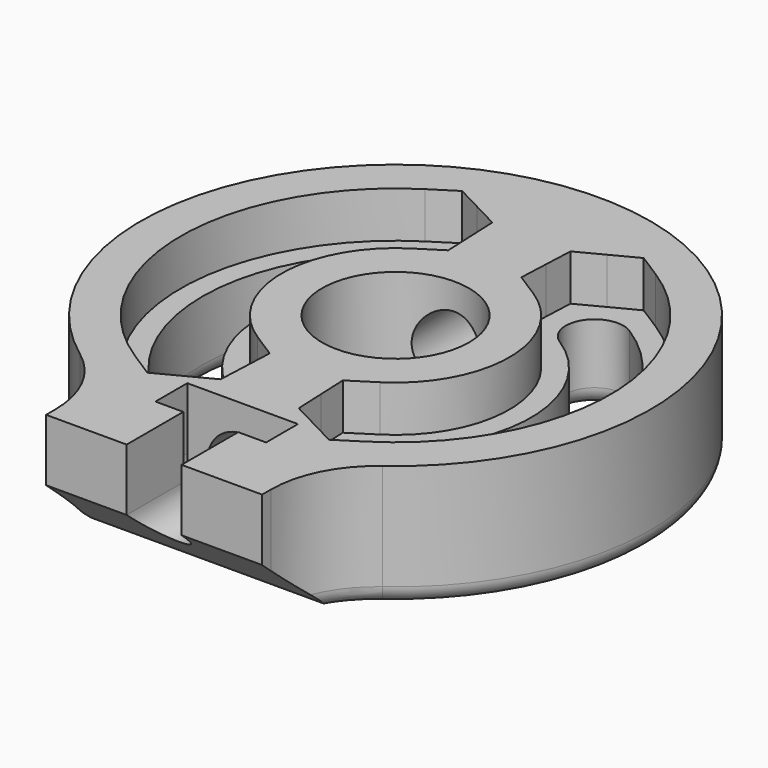
from build123d import *

# Parameters (mm, degrees)
SKETCH_R          = 4.15
EXTRUDE_DEPTH     = 7
FILLET_R          = 6
POCKET_DEPTH      = 20.501
POCKET_DEPTH_BACK = 8.301
FILLET001_R       = 1
SKETCH002_R       = 1.55
POCKET001_DEPTH   = 4
SKETCH003_R       = 2
POCKET002_DEPTH   = 27.445156
POCKET003_DEPTH   = 3.5
POCKET004_DEPTH   = 2.25
POCKET005_DEPTH   = 2.6


with BuildPart() as part:
    # Sketch → Extrude (new body)
    with BuildSketch(Plane.XY):
        with BuildLine():
            ThreePointArc((6.1, -13.044156), (0, 14.4), (-6.1, -13.044156))
            Line((-6.1, -13.044156), (-6.1, -17.044156))
            Line((-6.1, -17.044156), (6.1, -17.044156))
            Line((6.1, -17.044156), (6.1, -13.044156))
        make_face()
        Circle(SKETCH_R, mode=Mode.SUBTRACT)
        with BuildLine():
            ThreePointArc((-4.110342, 6.451945), (-7.65, 0), (-4.110342, -6.451945))
            ThreePointArc((-5.856566, -9.192967), (-3.612943, -8.695568), (-4.110342, -6.451945))
            ThreePointArc((-5.856566, 9.192967), (-10.9, 0), (-5.856566, -9.192967))
            ThreePointArc((-4.110342, 6.451945), (-3.612943, 8.695568), (-5.856566, 9.192967))
        make_face(mode=Mode.SUBTRACT)
        with BuildLine():
            ThreePointArc((4.110342, -6.451945), (7.65, 0), (4.110342, 6.451945))
            ThreePointArc((5.856566, 9.192967), (3.612943, 8.695568), (4.110342, 6.451945))
            ThreePointArc((5.856566, -9.192967), (10.9, 0), (5.856566, 9.192967))
            ThreePointArc((4.110342, -6.451945), (3.612943, -8.695568), (5.856566, -9.192967))
        make_face(mode=Mode.SUBTRACT)
    extrude(amount=EXTRUDE_DEPTH)

    # Fillet
    fillet_edges = [part.edges().sort_by_distance(p)[0] for p in [
        (6.1, -13.044156, 3.5),
        (-6.1, -13.044156, 3.5),
    ]]
    fillet(fillet_edges, radius=FILLET_R)

    # Sketch001 → Pocket (cut, two sides)
    with BuildSketch(Plane.YZ.offset(6.1)) as pocket_sk:
        Polygon((-17.044156, 3.5), (-17.044156, 0), (-13.044156, 0), align=None)
    extrude(amount=-POCKET_DEPTH, mode=Mode.SUBTRACT)
    extrude(pocket_sk.sketch, amount=POCKET_DEPTH_BACK, mode=Mode.SUBTRACT)

    # Fillet001
    fillet001_edges = [part.edges().sort_by_distance(p)[0] for p in [
        (0, 14.4, 0),
        (7.780531, -12.259672, 0),
        (0, -13.044156, 0),
        (-7.780531, -12.259672, 0),
        (-7.65, 0, 0),
        (-3.612943, 8.695568, 0),
        (-3.612943, -8.695568, 0),
        (-10.9, 0, 0),
        (-4.15, 0, 0),
        (3.612943, -8.695568, 0),
        (7.65, 0, 0),
        (10.9, 0, 0),
        (3.612943, 8.695568, 0),
    ]]
    fillet(fillet001_edges, radius=FILLET001_R)

    # Sketch002 → Pocket001 (cut)
    with BuildSketch(Plane.XZ.offset(17.044156)):
        with Locations((0, 3.5)):
            Circle(SKETCH002_R)
    extrude(amount=-POCKET001_DEPTH, mode=Mode.SUBTRACT)

    # Sketch003 → Pocket002 (cut, through all)
    with BuildSketch(Plane.XZ.offset(13.044156)):
        with Locations((0, 3.5)):
            Circle(SKETCH003_R)
    extrude(amount=-POCKET002_DEPTH, mode=Mode.SUBTRACT)

    # Sketch004 → Pocket003 (cut)
    with BuildSketch(Plane.XY.offset(7)):
        Polygon((-3.125, -10.794156), (3.125, -10.794156), (3.125, -13.044156), (1.55, -13.044156), (1.55, -17.044156), (-1.55, -17.044156), (-1.55, -13.044156), (-3.125, -13.044156), align=None)
    extrude(amount=-POCKET003_DEPTH, mode=Mode.SUBTRACT)

    # Sketch005 → Pocket004 (cut)
    with BuildSketch(Plane.XZ.offset(10.794156)):
        with BuildLine():
            Line((-3.125, 3.5), (3.125, 3.5))
            ThreePointArc((-3.125, 3.5), (0, 0.375), (3.125, 3.5))
        make_face()
    extrude(amount=POCKET004_DEPTH, mode=Mode.SUBTRACT)

    # Sketch006 → Pocket005 (cut)
    with BuildSketch(Plane.XY.offset(7)):
        with BuildLine():
            ThreePointArc((-3.45215, 5.41879), (-6.425, 0), (-3.45215, -5.41879))
            Line((-2.064393, -6.302889), (-3.45215, -5.41879))
            Line((-2.136166, -7.946771), (-2.064393, -6.302889))
            Line((-2.20794, -9.590653), (-2.136166, -7.946771))
            Line((-3.66747, -10.350436), (-2.20794, -9.590653))
            Line((-5.127001, -11.11022), (-3.66747, -10.350436))
            Line((-6.514758, -10.226121), (-5.127001, -11.11022))
            ThreePointArc((-6.514758, 10.226121), (-12.125, 0), (-6.514758, -10.226121))
            Line((-6.514758, 10.226121), (-5.127001, 11.11022))
            Line((-5.127001, 11.11022), (-3.66747, 10.350437))
            Line((-3.66747, 10.350437), (-2.20794, 9.590653))
            Line((-2.20794, 9.590653), (-2.136166, 7.946771))
            Line((-2.136166, 7.946771), (-2.064393, 6.302889))
            Line((-2.064393, 6.302889), (-3.45215, 5.41879))
        make_face()
        with BuildLine():
            ThreePointArc((3.45215, -5.41879), (6.425, 0), (3.45215, 5.41879))
            Line((3.45215, 5.41879), (2.06439, 6.302885))
            Line((2.06439, 6.302885), (2.136166, 7.946768))
            Line((2.136166, 7.946768), (2.207943, 9.590651))
            Line((2.207943, 9.590651), (3.667473, 10.350438))
            Line((3.667473, 10.350438), (5.127002, 11.110224))
            Line((5.127002, 11.110224), (6.514758, 10.226121))
            ThreePointArc((6.514758, -10.226121), (12.125, 0), (6.514758, 10.226121))
            Line((5.127001, -11.11022), (6.514758, -10.226121))
            Line((3.66747, -10.350437), (5.127001, -11.11022))
            Line((2.20794, -9.590653), (3.66747, -10.350437))
            Line((2.136166, -7.946771), (2.20794, -9.590653))
            Line((2.064393, -6.302889), (2.136166, -7.946771))
            Line((3.45215, -5.41879), (2.064393, -6.302889))
        make_face()
    extrude(amount=-POCKET005_DEPTH, mode=Mode.SUBTRACT)


solid = part.part
